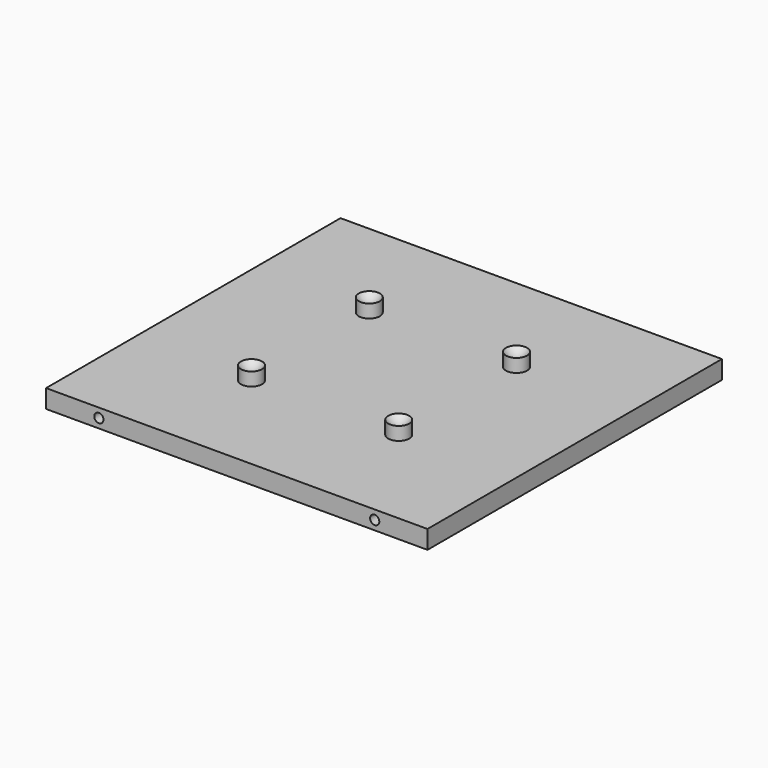
from build123d import *

# Parameters (mm, degrees)
F0_W     = 508
F0_H     = 25.4
F0_R     = 6.35
F1_DEPTH = 254


with BuildPart() as f1:
    # F0 (on Front) → F1 (new body, symmetric)
    with BuildSketch(Plane.XZ):
        with Locations((9.227537, 0)):
            Rectangle(F0_W, F0_H)
        with Locations((-190.37859, 0)):
            Circle(F0_R, mode=Mode.SUBTRACT)
        with Locations((190.37859, 0)):
            Circle(F0_R, mode=Mode.SUBTRACT)
    extrude(amount=F1_DEPTH, both=True)

    # F3 (on offset) → F4 (revolve)
    with BuildSketch(Plane.XZ.offset(101.6)):
        with BuildLine():
            ThreePointArc((-101.6, 23.286832), (-109.828136, 25.325427), (-116.152795, 30.969607))
            Line((-116.152795, 30.969607), (-116.152795, 10.770973))
            Line((-116.152795, 10.770973), (-101.6, 10.770973))
            Line((-101.6, 10.770973), (-101.6, 23.286832))
        make_face()
    revolve(axis=Axis((-101.6, -101.6, 17.028903), (0, 0, -1)))

    # F5: F1 across plane


with BuildPart() as f1_1:
    add(f1.part)
    add(f1.part.mirror(Plane.YZ))

    # F6: F1 across plane


with BuildPart() as f1_2:
    add(f1_1.part)
    add(f1_1.part.mirror(Plane.XZ))


solid = f1_2.part
